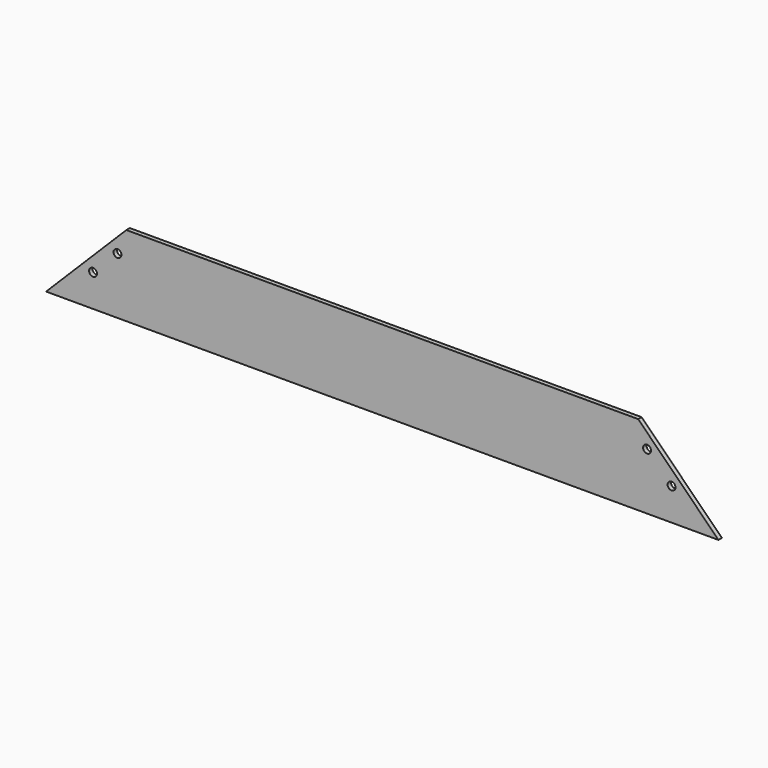
from build123d import *

# Parameters (mm, degrees)
F0_R     = 8.73125
F1_DEPTH = 9.525


with BuildPart() as f1:
    # F0 (on Front) → F1 (new body)
    with BuildSketch(Plane.XZ):
        Polygon((-744.5375, -88.9), (744.5375, -88.9), (566.7375, 88.9), (-566.7375, 88.9), align=None)
        with Locations((-640.587881, -17.4625)):
            Circle(F0_R, mode=Mode.SUBTRACT)
        with Locations((640.587881, -17.4625)):
            Circle(F0_R, mode=Mode.SUBTRACT)
        with Locations((-586.384281, 36.7411)):
            Circle(F0_R, mode=Mode.SUBTRACT)
        with Locations((586.384281, 36.7411)):
            Circle(F0_R, mode=Mode.SUBTRACT)
    extrude(amount=F1_DEPTH)


solid = f1.part
